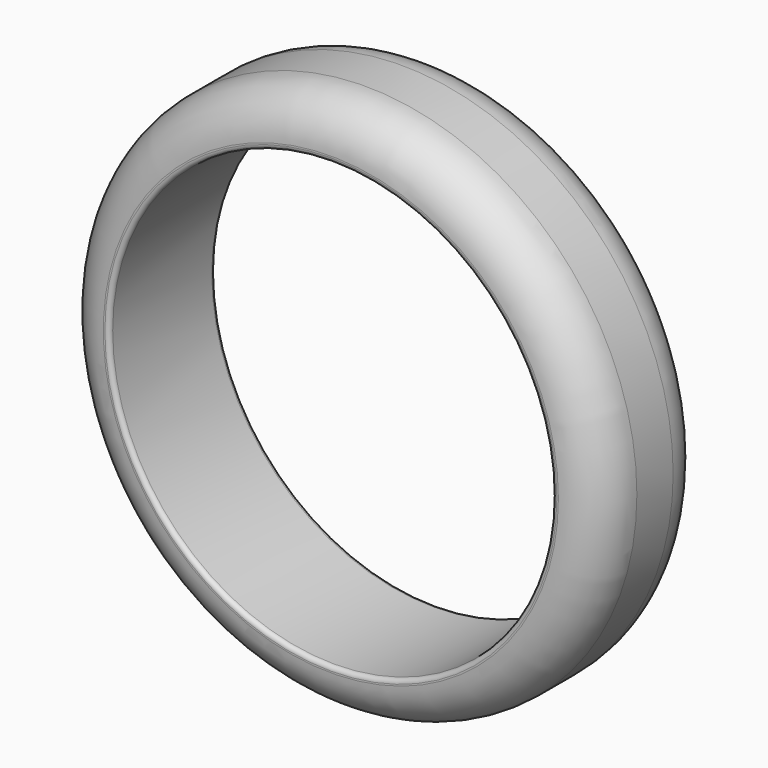
from build123d import *

# Parameters (mm, degrees)
F0_R     = 31.1006600455
F0_R_2   = 25.4231956913
F1_DEPTH = 7.6
F2_R     = 5
F3_R     = 0.5


with BuildPart() as f1:
    # F0 (on Front) → F1 (new body, symmetric)
    with BuildSketch(Plane.XZ):
        Circle(F0_R)
        Circle(F0_R_2, mode=Mode.SUBTRACT)
    extrude(amount=F1_DEPTH, both=True)

    # F2
    f2_edges = [f1.edges().sort_by_distance(p)[0] for p in [
        (-31.10066, 7.6, 0),
        (31.10066, 0, 0),
        (-31.10066, -7.6, 0),
    ]]
    fillet(f2_edges, radius=F2_R)

    # F3
    f3_edges = [f1.edges().sort_by_distance(p)[0] for p in [
        (-25.423196, -7.6, 0),
        (25.423196, 0, 0),
        (-25.423196, 7.6, 0),
    ]]
    fillet(f3_edges, radius=F3_R)


solid = f1.part
